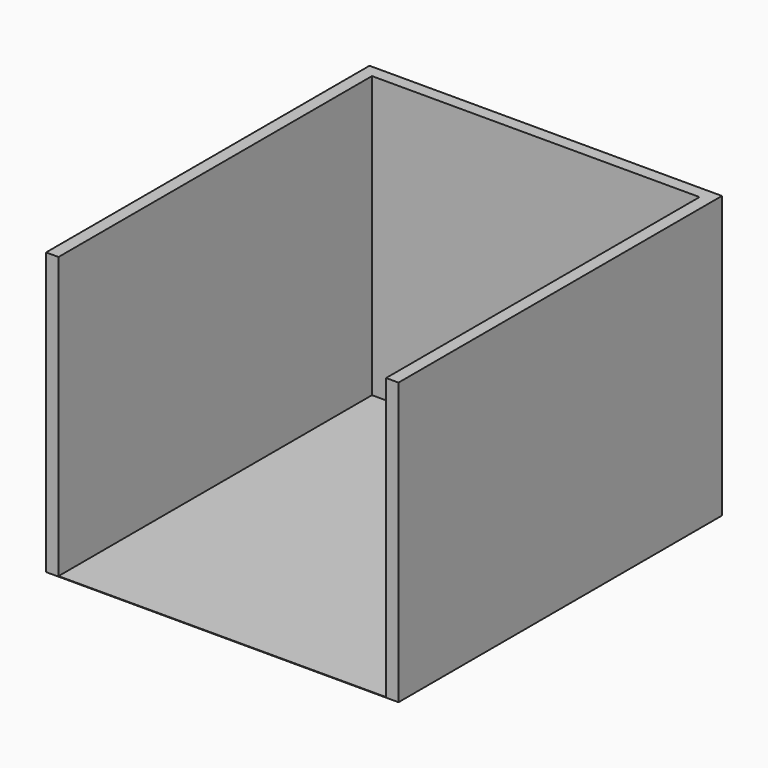
from build123d import *

# Parameters (mm, degrees)
F0_W     = 3400
F0_H     = 3900
F1_DEPTH = 5
F3_DEPTH = 2710


with BuildPart() as f1:
    # F0 (on Top) → F1 (new body)
    with BuildSketch(Plane.XY):
        with Locations((-1700, 1950)):
            Rectangle(F0_W, F0_H)
    extrude(amount=F1_DEPTH)

    # F2 (on face) → F3 (join)
    with BuildSketch(Plane.XY.offset(5)):
        Polygon((0, 3780), (0, 3900), (-3400, 3900), (-3400, 3780), (-3400, 0), (-3280, 0), (-3280, 3780), (-120, 3780), (-120, 0), (0, 0), align=None)
    extrude(amount=F3_DEPTH)


solid = f1.part
